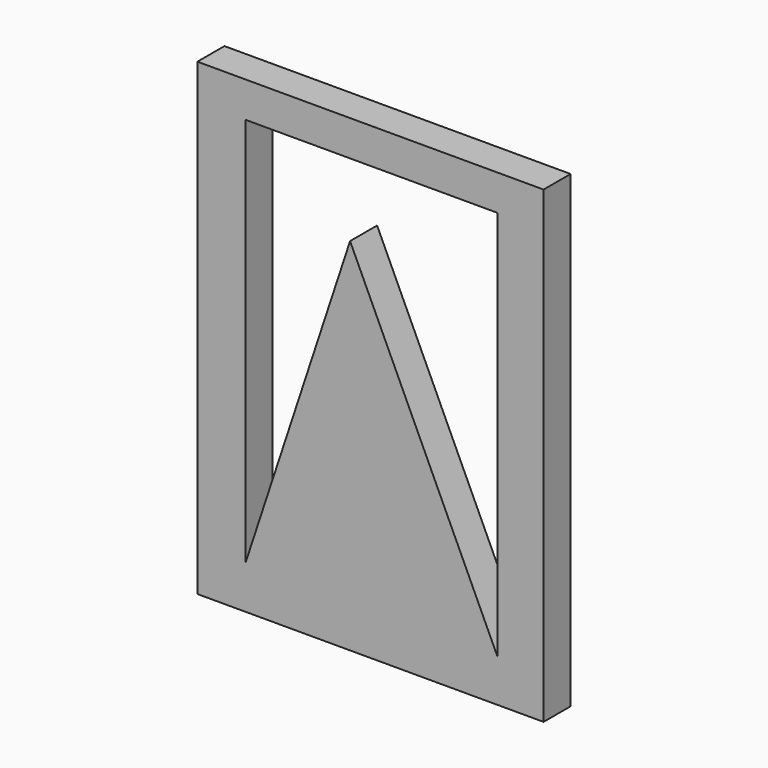
from build123d import *

# Parameters (mm, degrees)
F0_W     = 30.743243
F0_H     = 41.621625
F1_DEPTH = 3


with BuildPart() as f1:
    # F0 (on Front) → F1 (new body)
    with BuildSketch(Plane.XZ):
        with Locations((31.689193, -31.925679)):
            Rectangle(F0_W, F0_H)
        Polygon((20.574326, -48.952702), (20.574326, -14.268018), (42.961713, -14.268018), (42.961713, -48.952702), (29.87613, -20.731982), align=None, mode=Mode.SUBTRACT)
    extrude(amount=F1_DEPTH)


solid = f1.part
